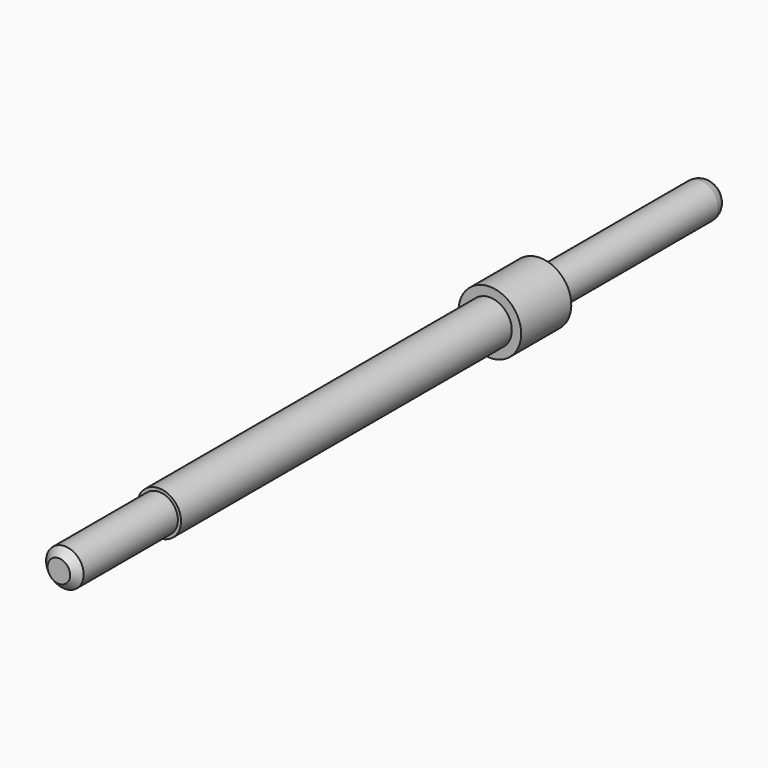
from build123d import *

# Parameters (mm, degrees)
F2_SIZE = 0.6


with BuildPart() as f1:
    # F0 (on Right) → F1 (revolve)
    with BuildSketch(Plane.YZ):
        with BuildLine():
            Line((-47.483945, 1.5), (-47.483945, 0))
            Line((-47.483945, 0), (17.516055, 0))
            Line((17.516055, 0), (17.516055, 0.45))
            ThreePointArc((17.516055, 0.45), (17.223162, 1.157107), (16.516055, 1.45))
            Line((16.516055, 1.45), (0.516055, 1.45))
            Line((0.516055, 1.45), (0.516055, 2.5))
            Line((0.516055, 2.5), (-4.483945, 2.5))
            Line((-4.483945, 2.5), (-4.483945, 1.75))
            Line((-4.483945, 1.75), (-37.483945, 1.75))
            Line((-37.483945, 1.75), (-37.483945, 1.5))
            Line((-37.483945, 1.5), (-47.483945, 1.5))
        make_face()
    revolve(axis=Axis((0, -14.983945, 0), (0, 1, 0)))

    # F2
    f2_edges = [f1.edges().sort_by_distance(p)[0] for p in [
        (0, -47.483945, -1.5),
    ]]
    chamfer(f2_edges, length=F2_SIZE)


solid = f1.part
